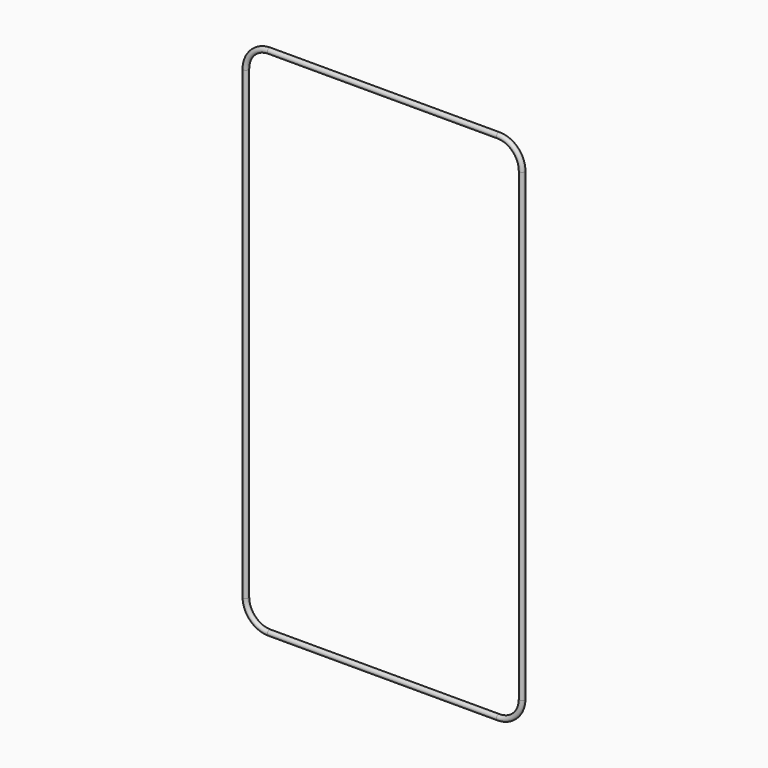
from build123d import *

# Parameters (mm, degrees)
F2_R = 0.55


with BuildPart() as f3:
    # F3: sweep along a path in F0
    with BuildLine(Plane.XZ) as f3_path:
        Line((-24.25, 54.25), (24.25, 54.25))
        ThreePointArc((24.25, 54.25), (27.7855339059, 52.7855339059), (29.25, 49.25))
        Line((29.25, 49.25), (29.25, -49.25))
        ThreePointArc((29.25, -49.25), (27.7855339059, -52.7855339059), (24.25, -54.25))
        Line((24.25, -54.25), (-24.25, -54.25))
        ThreePointArc((-24.25, -54.25), (-27.7855339059, -52.7855339059), (-29.25, -49.25))
        Line((-29.25, -49.25), (-29.25, 49.25))
        ThreePointArc((-29.25, 49.25), (-27.7855339059, 52.7855339059), (-24.25, 54.25))
    # F2 (on plane+point) → F3 (sweep)
    with BuildSketch(Plane.YZ.offset(-24.25)):
        with Locations((0, 54.25)):
            Circle(F2_R)
    sweep(path=f3_path.line)


solid = f3.part
